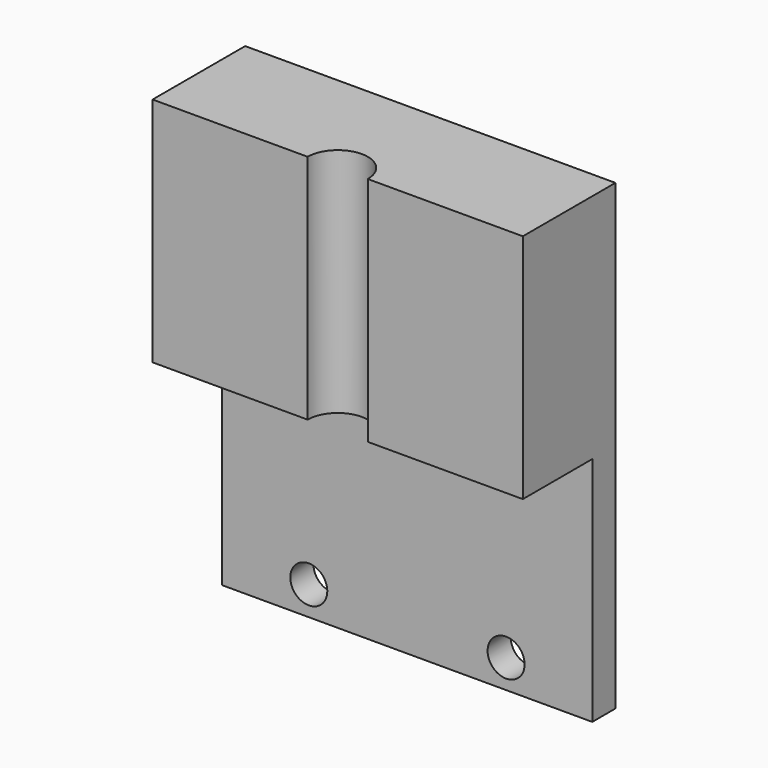
from build123d import *

# Parameters (mm, degrees)
F0_W     = 32
F0_H     = 40
F1_DEPTH = 2.5
F2_W     = 32
F2_H     = 20
F3_DEPTH = 7.5
F4_R     = 1.6
F5_DEPTH = 2.501
F6_R     = 2.6
F7_DEPTH = 20


with BuildPart() as f1:
    # F0 (on Front) → F1 (new body)
    with BuildSketch(Plane.XZ):
        with Locations((-16.529805, -15.329495)):
            Rectangle(F0_W, F0_H)
    extrude(amount=F1_DEPTH)

    # F2 (on face) → F3 (join)
    with BuildSketch(Plane.XZ.offset(2.5)):
        with Locations((-16.529805, -5.329495)):
            Rectangle(F2_W, F2_H)
    extrude(amount=F3_DEPTH)

    # F4 (on face) → F5 (cut, through all)
    with BuildSketch(Plane.XZ.offset(2.5)):
        with Locations((-25.029805, -32.829495)):
            Circle(F4_R)
        with BuildLine():
            ThreePointArc((-6.37738, -32.856394), (-6.377437, -32.842944), (-6.377607, -32.829495))
            ThreePointArc((-6.377607, -32.829495), (-9.577324, -32.869844), (-6.37738, -32.856394))
        make_face()
    extrude(amount=-F5_DEPTH, mode=Mode.SUBTRACT)

    # F6 (on face) → F7 (cut, through all)
    with BuildSketch(Plane.XY.offset(4.670505)):
        with Locations((-16.529805, -10)):
            Circle(F6_R)
    extrude(amount=-F7_DEPTH, mode=Mode.SUBTRACT)


solid = f1.part
